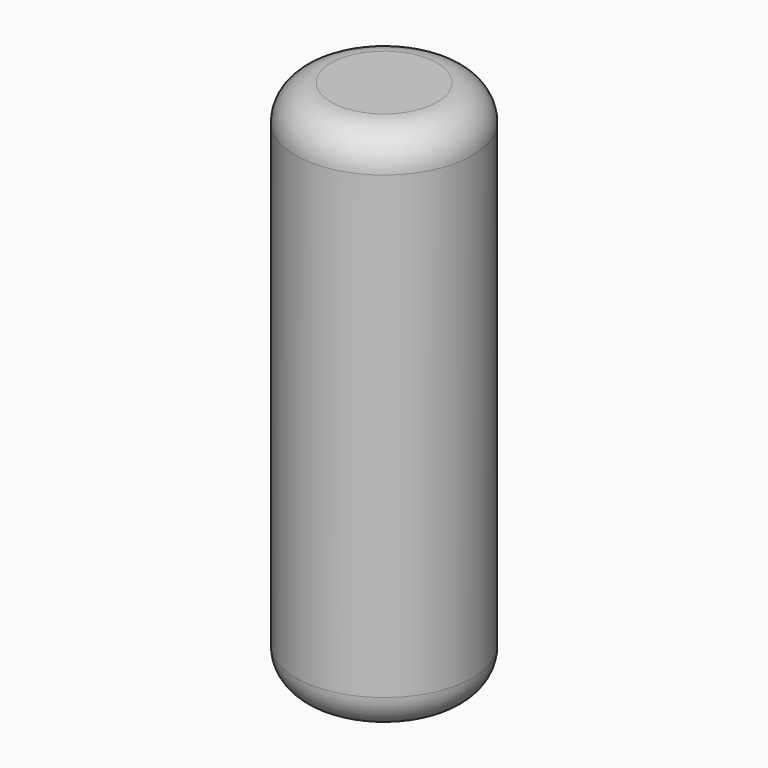
from build123d import *

# Parameters (mm, degrees)
F0_R     = 2.5
F1_DEPTH = 7.5
F2_R     = 1


with BuildPart() as f1:
    # F0 (on Top) → F1 (new body, symmetric)
    with BuildSketch(Plane.XY):
        Circle(F0_R)
    extrude(amount=F1_DEPTH, both=True)

    # F2
    f2_edges = [f1.edges().sort_by_distance(p)[0] for p in [
        (-2.5, 0, -7.5),
        (2.5, 0, 0),
        (-2.5, 0, 7.5),
    ]]
    fillet(f2_edges, radius=F2_R)


solid = f1.part
